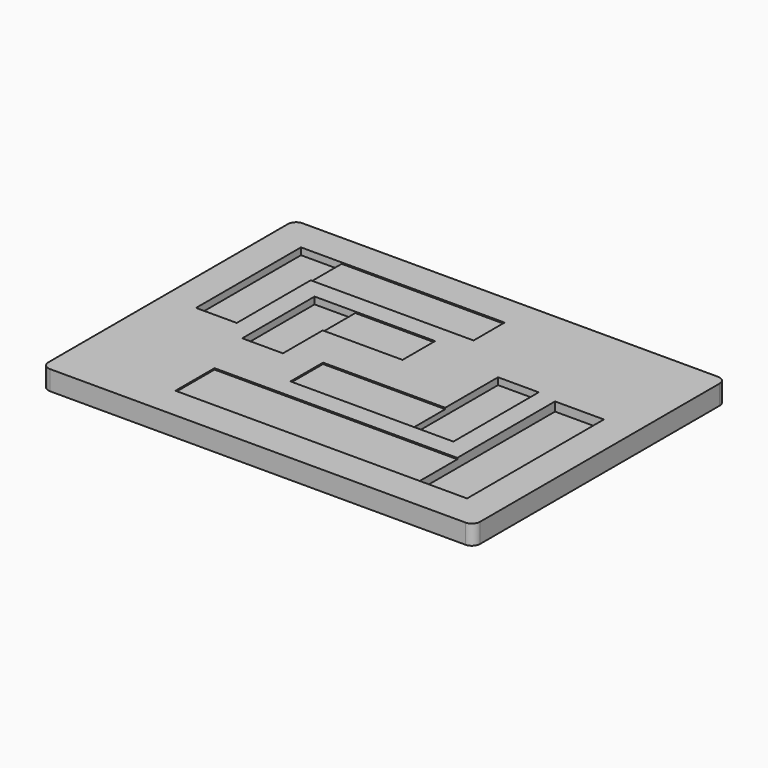
from build123d import *

# Parameters (mm, degrees)
F1_W     = 265
F1_H     = 193.8
F2_DEPTH = 12
F0_W     = 100
F0_H     = 23.8
F0_W_2   = 49
F0_H_2   = 25
F0_W_3   = 75
F0_W_4   = 149
F0_H_3   = 30
F3_DEPTH = 0.8
F4_DEPTH = 4.25
F5_DEPTH = 5.5
F6_R     = 5


with BuildPart() as f2:
    # F1 (on Top) → F2 (new body)
    with BuildSketch(Plane.XY):
        with Locations((-12.5, -3.1)):
            Rectangle(F1_W, F1_H)
    extrude(amount=-F2_DEPTH)

    # F0 (on Top) → F3 (cut)
    with BuildSketch(Plane.XY):
        Polygon((-100, 73.8), (-125, 73.8), (-125, -6.7), (-100, -6.7), (-100, 50), align=None)
        with Locations((-50, 61.9)):
            Rectangle(F0_W, F0_H)
        Polygon((-63, 38), (-88, 38), (-88, -17.5), (-63, -17.5), (-63, 13), align=None)
        with Locations((-38.5, 25.5)):
            Rectangle(F0_W_2, F0_H_2)
        Polygon((58, 27.5), (33, 27.5), (33, -13), (33, -38), (58, -38), align=None)
        with Locations((-4.5, -25.5)):
            Rectangle(F0_W_3, F0_H_2)
        Polygon((100, -80), (100, 25), (70, 25), (70, -50), (70, -80), align=None)
        with Locations((-4.5, -65)):
            Rectangle(F0_W_4, F0_H_3)
    extrude(amount=-F3_DEPTH, mode=Mode.SUBTRACT)

    # F0 (on Top) → F4 (cut)
    with BuildSketch(Plane.XY):
        Polygon((58, 27.5), (33, 27.5), (33, -13), (33, -38), (58, -38), align=None)
        Polygon((-63, 38), (-88, 38), (-88, -17.5), (-63, -17.5), (-63, 13), align=None)
        Polygon((-100, 73.8), (-125, 73.8), (-125, -6.7), (-100, -6.7), (-100, 50), align=None)
    extrude(amount=-F4_DEPTH, mode=Mode.SUBTRACT)

    # F0 (on Top) → F5 (cut)
    with BuildSketch(Plane.XY):
        Polygon((100, -80), (100, 25), (70, 25), (70, -50), (70, -80), align=None)
    extrude(amount=-F5_DEPTH, mode=Mode.SUBTRACT)

    # F6
    f6_edges = [f2.edges().sort_by_distance(p)[0] for p in [
        (-145, -100, -6),
        (120, -100, -6),
        (120, 93.8, -6),
        (-145, 93.8, -6),
    ]]
    fillet(f6_edges, radius=F6_R)


solid = f2.part
